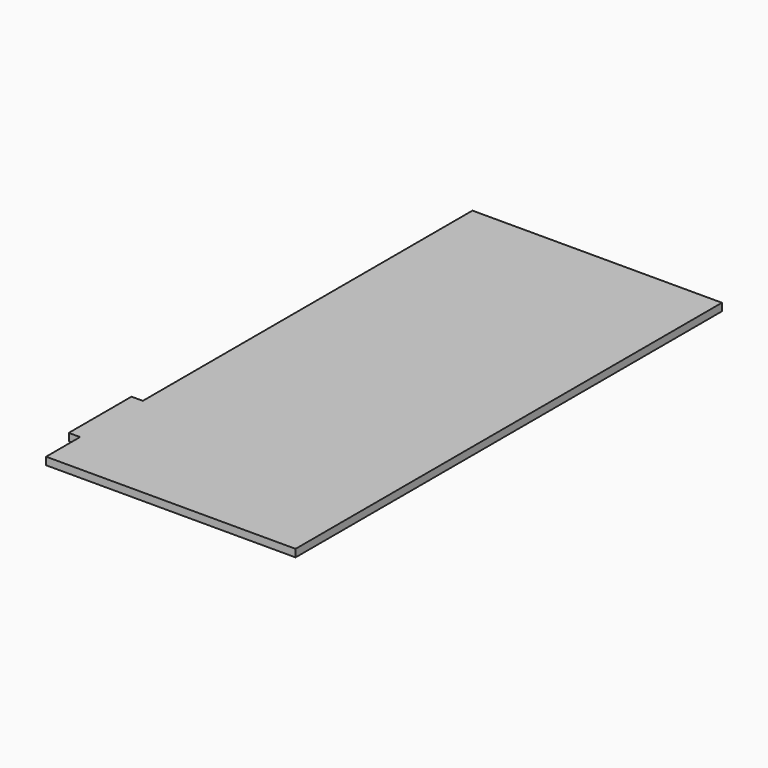
from build123d import *

# Parameters (mm, degrees)
F0_W     = 3352.8
F0_H     = 7162.8
F1_DEPTH = 101.6
F2_W     = 152.4
F2_H     = 1054.1
F3_DEPTH = 101.6


with BuildPart() as f1:
    # F0 (on Top) → F1 (new body)
    with BuildSketch(Plane.XY):
        Rectangle(F0_W, F0_H)
    extrude(amount=F1_DEPTH)

    # F2 (on face) → F3 (join, through all)
    with BuildSketch(Plane.XY.offset(101.6)):
        with Locations((-1752.6, -2482.85)):
            Rectangle(F2_W, F2_H)
    extrude(amount=-F3_DEPTH)


solid = f1.part
